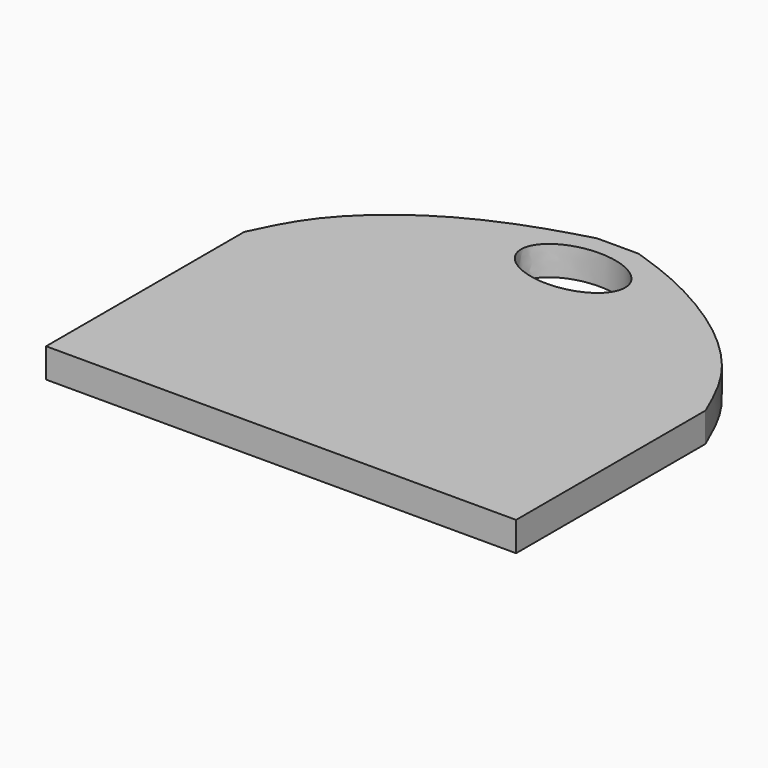
from build123d import *

# Parameters (mm, degrees)
F0_W     = 400
F0_H     = 350
F1_DEPTH = 25
F3_DEPTH = 25.001
F4_DEPTH = 25.0010001


with BuildPart() as f1:
    # F0 (on Top) → F1 (new body)
    with BuildSketch(Plane.XY):
        with Locations((-3.5233765841, 118.3980174363)):
            Rectangle(F0_W, F0_H)
    extrude(amount=F1_DEPTH)

    # F2 (on face) → F3 (cut, through all)
    with BuildSketch(Plane.XY.offset(25)):
        with BuildLine():
            add(Edge.make_bspline(
                [(44.2566461861, 249.6780008078), (44.2566461861, 298.3677757365), (-22.1283230931, 274.0228882721), (-88.5132923722, 249.6780008078), (-22.1283230931, 225.3331133434), (44.2566461861, 200.988225879), (44.2566461861, 249.6780008078)],
                knots=[0, 0, 0, 2.0943951024, 2.0943951024, 4.1887902048, 4.1887902048, 6.2831853072, 6.2831853072, 6.2831853072], degree=2, weights=[1, 0.5, 1, 0.5, 1, 0.5, 1]))
        make_face()
        with BuildLine():
            Line((-203.5233765841, 293.3980174363), (-203.5233765841, 154.1179567575))
            add(Edge.make_bspline(
                [(-203.5233765841, 154.1179567575), (-196.4985438324, 169.0769109558), (-181.1886958169, 201.6783013863), (-127.6033977729, 250.0265307191), (-64.03503585, 279.499396574), (-30.1926324088, 289.0298899369), (-14.6815851331, 293.3980174363)],
                knots=[0, 0, 0, 0, 0.2302698792, 0.5018477988, 0.7716810404, 1, 1, 1, 1], degree=3))
            Line((-14.6815851331, 293.3980174363), (-203.5233765841, 293.3980174363))
        make_face()
    extrude(amount=-F3_DEPTH, mode=Mode.SUBTRACT)

    # F2 (on face) → F4 (cut, through all)
    with BuildSketch(Plane.XY.offset(25)):
        with BuildLine():
            Line((196.4766234159, 293.3980174363), (20.7957923412, 293.3980174363))
            add(Edge.make_bspline(
                [(20.7957923412, 293.3980174363), (33.8633883832, 288.9695333507), (63.5210100201, 278.9188472863), (125.5125321267, 244.1660098466), (174.6334198472, 195.1743773184), (189.5141817422, 160.9673562984), (196.4766234159, 144.9625045061)],
                knots=[0, 0, 0, 0, 0.216264973, 0.4908251467, 0.7617662158, 1, 1, 1, 1], degree=3))
            Line((196.4766234159, 144.9625045061), (196.4766234159, 293.3980174363))
        make_face()
    extrude(amount=-F4_DEPTH, mode=Mode.SUBTRACT)


solid = f1.part
